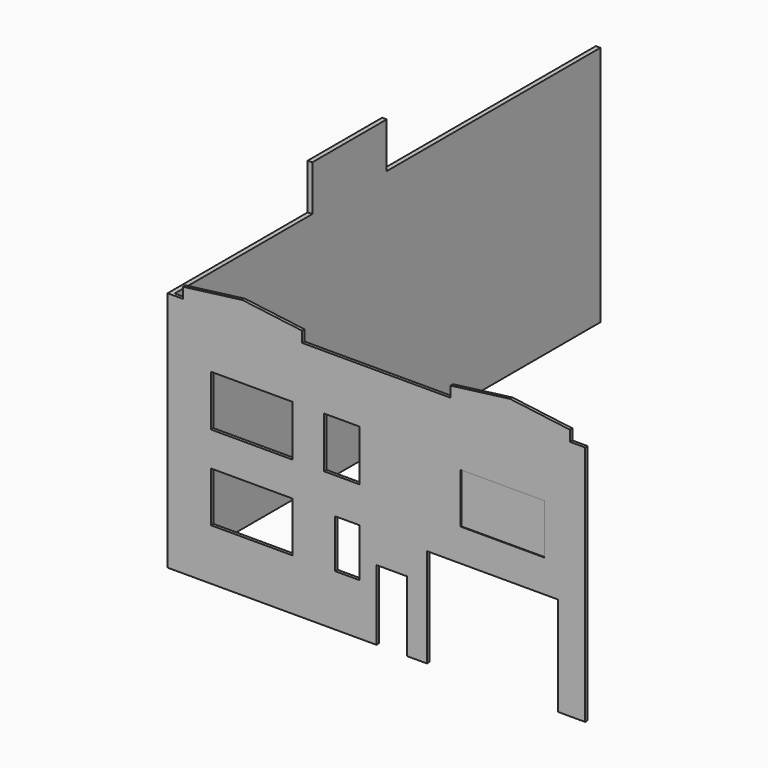
from build123d import *

# Parameters (mm, degrees)
F0_W     = 2715.0481939316
F0_H     = 1663.144826889
F0_W_2   = 810.2502822876
F0_H_2   = 1606.2853336334
F0_H_3   = 1691.5745735168
F0_W_3   = 1165.6231880188
F0_W_4   = 2786.1232757568
F0_H_4   = 1663.1445884705
F1_DEPTH = 101.6
F2_DEPTH = 25.4
F4_DEPTH = 152.4
F5_SCALE = 0.01


with BuildPart() as f1:
    # F0 (on Front) → F1 (new body)
    with BuildSketch(Plane.XZ):
        Polygon((0, 8026.4), (0, 0), (6934.2, 0), (6934.2, 2333.8942527771), (7960.1616859436, 2333.8942527771), (7960.1616859436, 0), (8614.0480041504, 0), (8614.0480041504, 3286.2932682037), (12963.8109207153, 3286.2932682037), (12963.8109207153, 0), (13868.4, 0), (13868.4, 8026.4), (13360.4, 8026.4), (13360.4, 8382), (11379.2, 8636), (9398, 8382), (9398, 8026.4), (4470.4, 8026.4), (4470.4, 8382), (2489.2, 8636), (508, 8382), (508, 8026.4), align=None)
        with Locations((2793.0410504341, 2540.0103330612)):
            Rectangle(F0_W, F0_H, mode=Mode.SUBTRACT)
        with Locations((5962.9664421082, 2511.5805864334)):
            Rectangle(F0_W_2, F0_H_2, mode=Mode.SUBTRACT)
        with Locations((2793.0410504341, 5354.562997818)):
            Rectangle(F0_W, F0_H_3, mode=Mode.SUBTRACT)
        with Locations((5785.2799892426, 5354.562997818)):
            Rectangle(F0_W_3, F0_H_3, mode=Mode.SUBTRACT)
        with Locations((11130.0868988037, 5198.1990337372)):
            Rectangle(F0_W_4, F0_H_4, mode=Mode.SUBTRACT)
        with Locations((11130.0868988037, 5198.1990337372)):
            Rectangle(F0_W_4, F0_H_4)
    extrude(amount=-F1_DEPTH)

    # F0 (on Front) → F2 (cut)
    with BuildSketch(Plane.XZ):
        with Locations((11130.0868988037, 5198.1990337372)):
            Rectangle(F0_W_4, F0_H_4)
    extrude(amount=-F2_DEPTH, mode=Mode.SUBTRACT)

    # F3 (on Right) → F4 (join)
    with BuildSketch(Plane.YZ):
        Polygon((0, 8026.4), (0, 0), (17780, 0), (17780, 8026.4), (8907.9284667969, 8026.4), (8907.9284667969, 9539.3447875977), (5817.1215057373, 9539.3447875977), (5817.1215057373, 8026.4), align=None)
    extrude(amount=F4_DEPTH)


with BuildPart() as f1_1:
    # F5: moved
    add(f1.part.scale(F5_SCALE))


solid = f1_1.part
